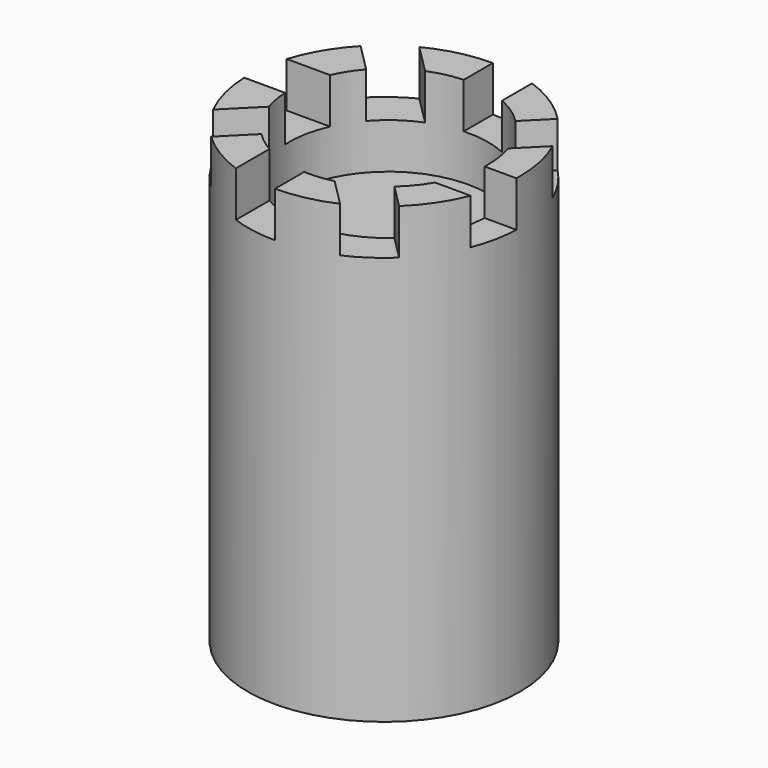
from build123d import *

# Parameters (mm, degrees)
CYLINDER001_R     = 22
CYLINDER001_DEPTH = 20
BOX_W             = 10
BOX_H             = 25
BOX_DEPTH         = 10
ARRAY_COUNT       = 8
CYLINDER_R        = 30
CYLINDER_DEPTH    = 100


with BuildPart() as cilindre001:
    # Cylinder001 → Cylinder001 (new body)
    with BuildSketch(Plane(origin=(1, -17, 80), x_dir=(1, 0, 0), z_dir=(0, 0, 1))):
        Circle(CYLINDER001_R)
    extrude(amount=CYLINDER001_DEPTH)


with BuildPart() as array:
    # Box → Box (new body)
    with BuildSketch(Plane.XY):
        with Locations((5, 12.5)):
            Rectangle(BOX_W, BOX_H)
    extrude(amount=BOX_DEPTH)

    # Array: Array ×8 about axis
    array_axis = Axis((0, -18, 0), (0, 0, 1))


with BuildPart() as array_1:
    add(array.part)
    for i in range(1, ARRAY_COUNT):
        add(array.part.rotate(array_axis, i * 360 / ARRAY_COUNT))


with BuildPart() as array_2:
    # Array placement: moved
    add(array_1.part.moved(Location((0, 0, 90))))


with BuildPart() as cut001:
    # Cylinder → Cylinder (new body)
    with BuildSketch(Plane(origin=(0, -17, 0), x_dir=(1, 0, 0), z_dir=(0, 0, 1))):
        Circle(CYLINDER_R)
    extrude(amount=CYLINDER_DEPTH)

    # Cut: cut Array
    add(array_2.part, mode=Mode.SUBTRACT)

    # Cut001: cut Cilindre001
    add(cilindre001.part, mode=Mode.SUBTRACT)


solid = cut001.part
